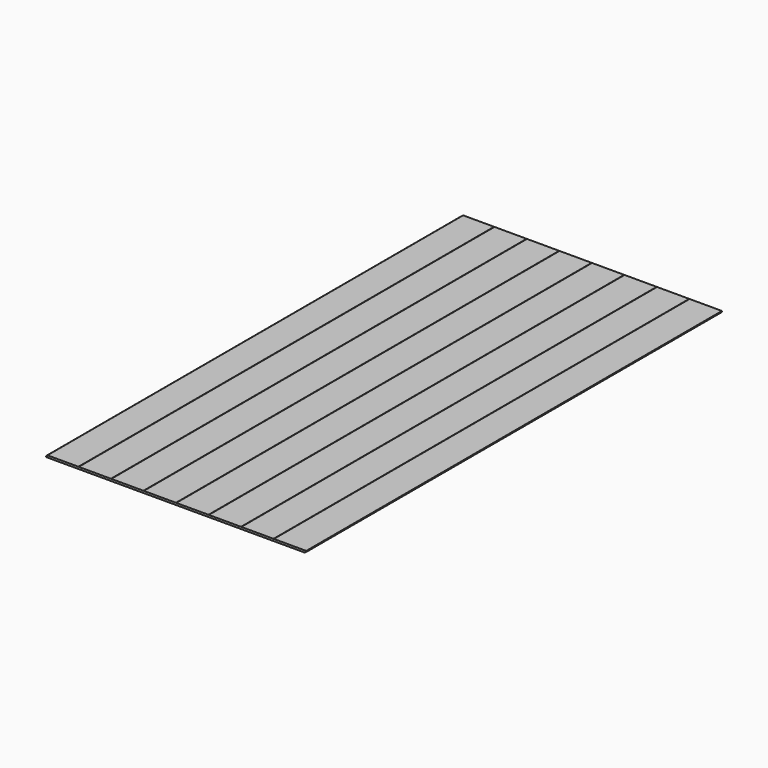
from build123d import *

# Parameters (mm, degrees)
F0_W     = 1219.2
F0_H     = 2435.225
F1_DEPTH = 4.7625
F2_W     = 6.35
F2_H     = 4.7625
F3_DEPTH = 2435.226
F4_W     = 1.5875
F4_H     = 1.5875
F5_DEPTH = 2435.226


with BuildPart() as f1:
    # F0 (on Top) → F1 (new body, symmetric)
    with BuildSketch(Plane.XY):
        with Locations((0, 693.83302)):
            Rectangle(F0_W, F0_H)
    extrude(amount=F1_DEPTH, both=True)

    # F2 (on face) → F3 (cut, through all)
    with BuildSketch(Plane.XZ.offset(523.77948)):
        with Locations((606.425, -2.38125)):
            Rectangle(F2_W, F2_H)
        with Locations((-606.425, 2.38125)):
            Rectangle(F2_W, F2_H)
    extrude(amount=-F3_DEPTH, mode=Mode.SUBTRACT)

    # F4 (on face) → F5 (cut, through all)
    with BuildSketch(Plane.XZ.offset(523.77948)):
        with Locations((-457.2, 3.96875)):
            Rectangle(F4_W, F4_H)
        with Locations((-304.8, 3.96875)):
            Rectangle(F4_W, F4_H)
        with Locations((-152.4, 3.96875)):
            Rectangle(F4_W, F4_H)
        with Locations((0, 3.96875)):
            Rectangle(F4_W, F4_H)
        with Locations((152.4, 3.96875)):
            Rectangle(F4_W, F4_H)
        with Locations((304.8, 3.96875)):
            Rectangle(F4_W, F4_H)
        with Locations((457.2, 3.96875)):
            Rectangle(F4_W, F4_H)
    extrude(amount=-F5_DEPTH, mode=Mode.SUBTRACT)


solid = f1.part
